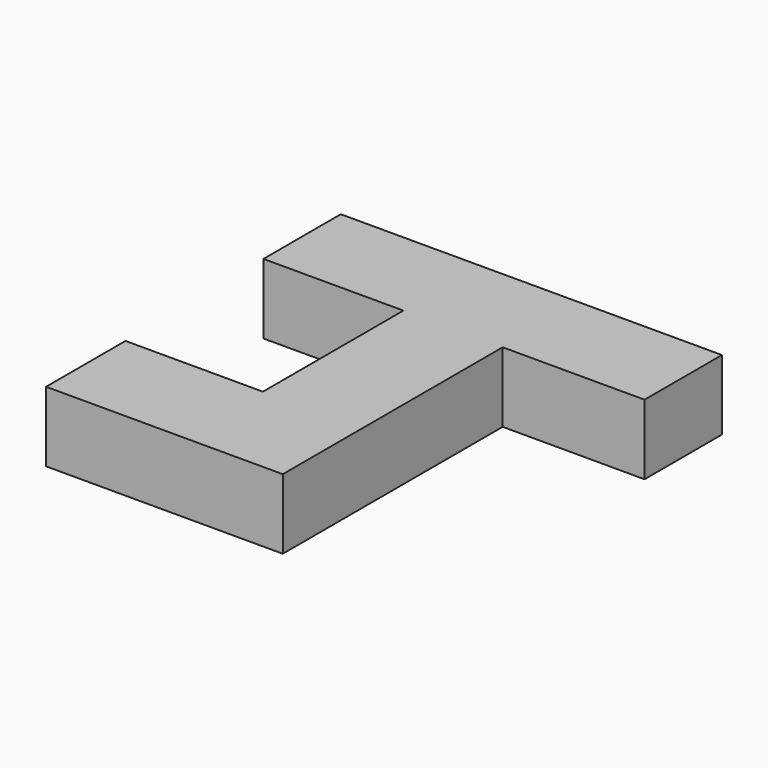
from build123d import *

# Parameters (mm, degrees)
F0_W     = 16.238193959
F0_H     = 11.2191159278
F0_W_2   = 11.5143544972
F0_W_3   = 16.459621489
F0_H_2   = 20.3715497628
F0_H_3   = 11.5143535659
F0_W_4   = 15.942953527
F1_DEPTH = 8.128


with BuildPart() as f1:
    # F0 (on Top) → F1 (new body)
    with BuildSketch(Plane.XY):
        with Locations((-36.0930729657, 18.0834410712)):
            Rectangle(F0_W, F0_H)
        with Locations((-22.2167987376, 18.0834410712)):
            Rectangle(F0_W_2, F0_H)
        with Locations((-8.2298107445, 18.0834410712)):
            Rectangle(F0_W_3, F0_H)
        with Locations((-22.2167987376, 2.2881082259)):
            Rectangle(F0_W_2, F0_H_2)
        with Locations((-22.2167987376, -13.6548434384)):
            Rectangle(F0_W_2, F0_H_3)
        with Locations((-35.9454527497, -13.6548434384)):
            Rectangle(F0_W_4, F0_H_3)
    extrude(amount=F1_DEPTH)


solid = f1.part
